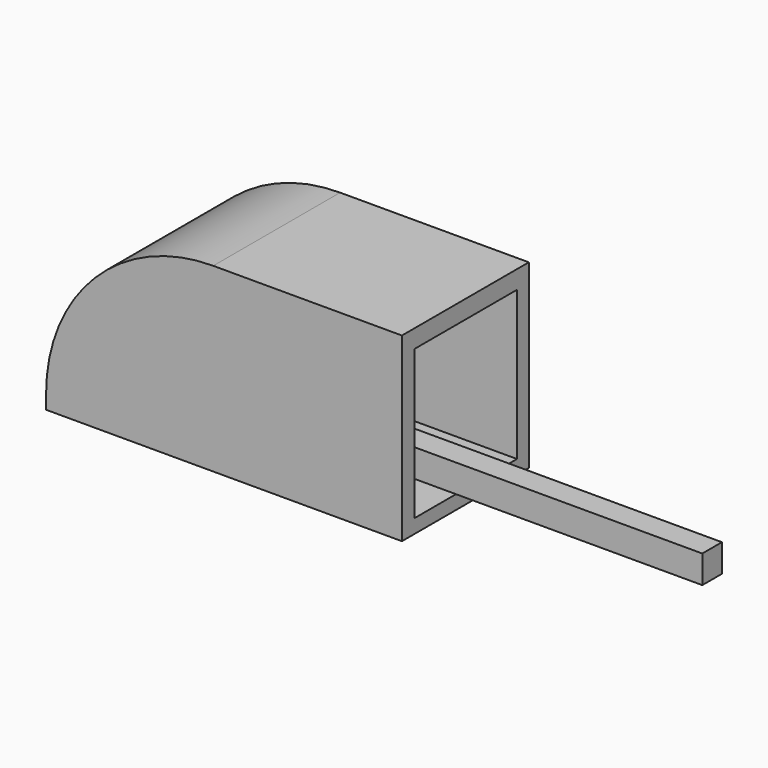
from build123d import *

# Parameters (mm, degrees)
F0_W      = 127.7185976505
F0_H      = 56.9143816829
F1_DEPTH  = 5
F2_W      = 127.7185976505
F2_H      = 5.2938833833
F2_H_2    = 5.7062916458
F2_W_2    = 112.358585
F2_H_3    = 8.8055357337
F3_DEPTH  = 60
F4_R      = 60
F6_DEPTH  = 46
F7_R      = 8.607172032
F8_DEPTH  = 20
F9_DEPTH  = 25
F10_DEPTH = 50
F5_W      = 67.7185976505
F5_H      = 6.5335953236
F11_DEPTH = 48


with BuildPart() as f1:
    # F0 (on Top) → F1 (new body)
    with BuildSketch(Plane.XY):
        with Locations((-11.5184038877, 22.6980000734)):
            Rectangle(F0_W, F0_H)
    extrude(amount=F1_DEPTH)

    # F2 (on face) → F3 (join)
    with BuildSketch(Plane.XY.offset(5)):
        with Locations((-11.5184038877, 48.5082492232)):
            Rectangle(F2_W, F2_H)
        with Locations((-11.5184038877, -2.9060449451)):
            Rectangle(F2_W, F2_H_2)
        with Locations((84.5533981919, 22.9110382497)):
            Rectangle(F2_W_2, F2_H_3)
    extrude(amount=F3_DEPTH)

    # F4
    f4_edges = [f1.edges().sort_by_distance(p)[0] for p in [
        (-75.377703, 48.508249, 65),
        (-75.377703, -2.906045, 65),
    ]]
    fillet(f4_edges, radius=F4_R)

    # F5 (on face) → F6 (join)
    with BuildSketch(Plane.XZ.offset(-45.8613075316)):
        with BuildLine():
            Line((-15.377702713, 58.4664046764), (-15.377702713, 65))
            ThreePointArc((-15.377702713, 65), (-57.8041095842, 47.4264068712), (-75.377702713, 5))
            Line((-75.377702713, 5), (-70.2792108059, 5))
            ThreePointArc((-70.2792108059, 5), (-53.2827635395, 42.4681154442), (-15.377702713, 58.4664046764))
        make_face()
    extrude(amount=F6_DEPTH)

    # F7 (on face) → F8 (cut)
    with BuildSketch(Plane(origin=(-75.377702713, 0, 0), x_dir=(0, -1, 0), z_dir=(-1, 0, 0))):
        with Locations((-22.6980000734, 20.8706017584)):
            Circle(F7_R)
    extrude(amount=-F8_DEPTH, mode=Mode.SUBTRACT)

    # F7 (on face) → F9 (cut)
    with BuildSketch(Plane(origin=(-75.377702713, 0, 0), x_dir=(0, -1, 0), z_dir=(-1, 0, 0))):
        with Locations((-22.6980000734, 20.8706017584)):
            Circle(F7_R)
    extrude(amount=-F9_DEPTH, mode=Mode.SUBTRACT)

    # F10 (cut): a face of the model
    f10_faces = [f1.faces().sort_by_distance(p)[0] for p in [
        (84.5533981919, 22.9110382497, 65),
    ]]
    extrude(f10_faces, amount=-F10_DEPTH, mode=Mode.SUBTRACT)

    # F5 (on face) → F11 (join)
    with BuildSketch(Plane.XZ.offset(-45.8613075316)):
        with BuildLine():
            Line((-15.377702713, 58.4664046764), (-15.377702713, 65))
            ThreePointArc((-15.377702713, 65), (-57.8041095842, 47.4264068712), (-75.377702713, 5))
            Line((-75.377702713, 5), (-70.2792108059, 5))
            ThreePointArc((-70.2792108059, 5), (-53.2827635395, 42.4681154442), (-15.377702713, 58.4664046764))
        make_face()
        with Locations((18.4815961123, 61.7332023382)):
            Rectangle(F5_W, F5_H)
    extrude(amount=F11_DEPTH)


solid = f1.part
